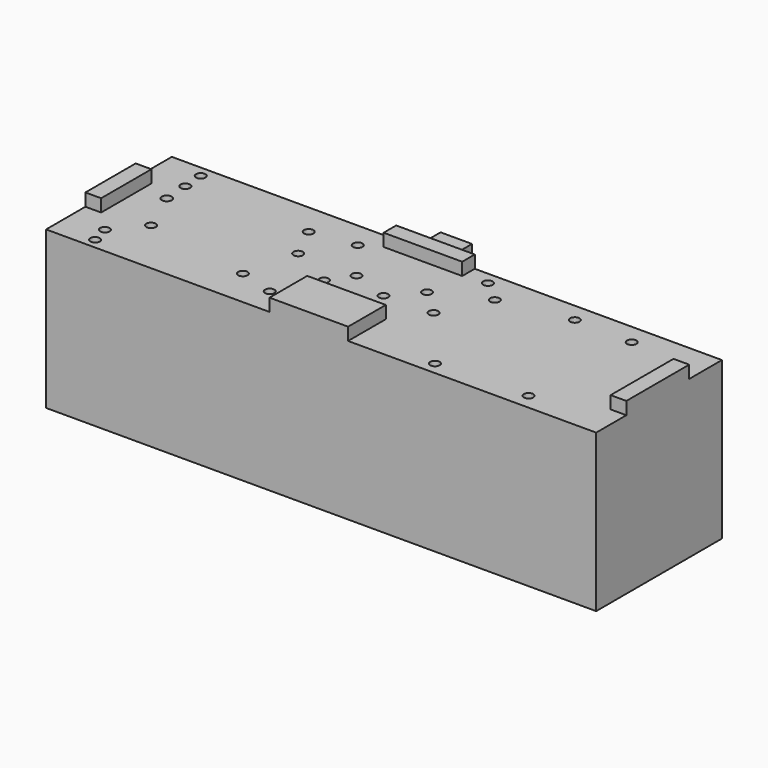
from build123d import *

# Parameters (mm, degrees)
F1_W     = 44.45
F1_H     = 12.699974
F2_DEPTH = 12.7
F3_R     = 0.381
F3_R_2   = 0.403108
F4_DEPTH = 12.701
F5_W     = 2.54
F5_H     = 2.54
F6_DEPTH = 12.7
F7_W     = 6.35
F7_H     = 1.27
F7_H_2   = 3.81
F7_W_2   = 1.27
F7_H_3   = 6.35
F7_H_4   = 5.08
F8_DEPTH = 1.016


with BuildPart() as f2:
    # F1 (on face) → F2 (new body)
    with BuildSketch(Plane.XY):
        with Locations((0, 0.168821)):
            Rectangle(F1_W, F1_H)
    extrude(amount=F2_DEPTH)

    # F3 (on face) → F4 (cut, through all)
    with BuildSketch(Plane.XY.offset(12.7)):
        with Locations((-18.92253, -5.355717)):
            Circle(F3_R)
        with Locations((-19.303555, -3.895014)):
            Circle(F3_R)
        with Locations((-17.398416, -1.608836)):
            Circle(F3_R)
        with Locations((-18.92253, 1.883105)):
            Circle(F3_R_2)
        with Locations((-19.049302, 3.915029)):
            Circle(F3_R)
        with Locations((-19.176098, 5.630012)):
            Circle(F3_R)
        with Locations((-9.079903, 3.915029)):
            Circle(F3_R)
        with Locations((-7.746632, 1.184453)):
            Circle(F3_R)
        with Locations((-8.762251, -3.132963)):
            Circle(F3_R)
        with Locations((-5.917971, -3.972179)):
            Circle(F3_R)
        with Locations((-4.190606, -0.656615)):
            Circle(F3_R)
        with Locations((-2.984132, 1.121054)):
            Circle(F3_R)
        with Locations((-5.523878, 4.422826)):
            Circle(F3_R)
        with Locations((0.064084, 0.042037)):
            Circle(F3_R)
        with Locations((1.90514, 2.136673)):
            Circle(F3_R)
        with Locations((3.988689, 0.193624)):
            Circle(F3_R)
        with Locations((8.382508, -5.165547)):
            Circle(F3_R)
        with Locations((5.906389, 3.979088)):
            Circle(F3_R)
        with Locations((4.127881, 5.503215)):
            Circle(F3_R)
        with Locations((11.557508, 4.994732)):
            Circle(F3_R)
        with Locations((16.256635, 4.867961)):
            Circle(F3_R)
        with Locations((15.748381, -4.912004)):
            Circle(F3_R)
    extrude(amount=-F4_DEPTH, mode=Mode.SUBTRACT)

    # F5 (on face) → F6 (join, through all)
    with BuildSketch(Plane.XY.offset(12.7)):
        with Locations((-1.27, 7.788808)):
            Rectangle(F5_W, F5_H)
    extrude(amount=-F6_DEPTH)

    # F7 (on face) → F8 (join)
    with BuildSketch(Plane.XY.offset(12.7)):
        with Locations((-0.919895, 5.883808)):
            Rectangle(F7_W, F7_H)
        with Locations((-0.996524, -4.276166)):
            Rectangle(F7_W, F7_H_2)
        with Locations((21.59, 0.039154)):
            Rectangle(F7_W_2, F7_H_3)
        with Locations((-21.59, 0.329979)):
            Rectangle(F7_W_2, F7_H_4)
    extrude(amount=F8_DEPTH)


solid = f2.part
